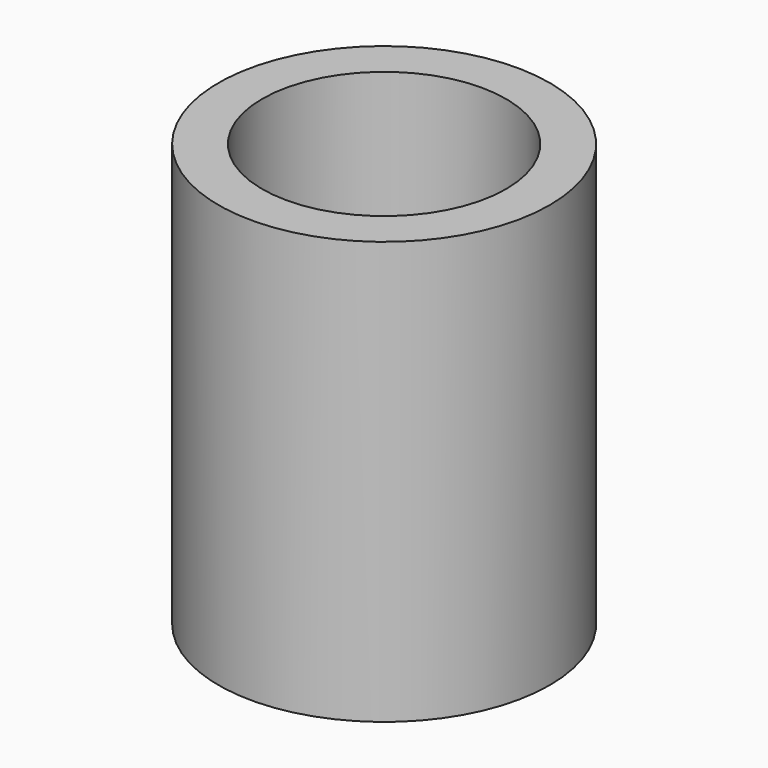
from build123d import *

# Parameters (mm, degrees)
F0_R      = 31
F0_R_2    = 28
F1_DEPTH  = 3
F0_R_3    = 14.75
F2_DEPTH  = 8
F0_R_4    = 11.3
F0_R_5    = 4.25
F3_DEPTH  = 30
F4_DEPTH  = 18
F5_R      = 8.25
F5_R_2    = 4.25
F6_DEPTH  = 9
F7_R      = 1
F8_R      = 38
F8_R_2    = 31
F8_R_3    = 28
F9_DEPTH  = 97
F10_R     = 24.75
F10_R_2   = 14.75
F11_DEPTH = 58
F12_DEPTH = 10
F13_R     = 14.75
F13_R_2   = 11.3
F13_R_3   = 4.25
F14_DEPTH = 6
F15_R     = 8
F15_R_2   = 4.25
F16_DEPTH = 3
F15_R_3   = 14.75
F15_R_4   = 11.3
F17_DEPTH = 20


with BuildPart() as f1:
    # F0 (on Top) → F1 (new body)
    with BuildSketch(Plane.XY):
        Circle(F0_R)
        Circle(F0_R_2, mode=Mode.SUBTRACT)
    extrude(amount=F1_DEPTH)

    # F0 (on Top) → F2 (join)
    with BuildSketch(Plane.XY):
        Circle(F0_R_2)
        Circle(F0_R_3, mode=Mode.SUBTRACT)
    extrude(amount=F2_DEPTH)

    # F0 (on Top) → F3 (join)
    with BuildSketch(Plane.XY):
        Circle(F0_R_3)
        Circle(F0_R_4, mode=Mode.SUBTRACT)
        Circle(F0_R_4)
        Circle(F0_R_5, mode=Mode.SUBTRACT)
    extrude(amount=F3_DEPTH)

    # F0 (on Top) → F4 (cut)
    with BuildSketch(Plane.XY):
        Circle(F0_R_4)
        Circle(F0_R_5, mode=Mode.SUBTRACT)
    extrude(amount=F4_DEPTH, mode=Mode.SUBTRACT)

    # F5 (on face) → F6 (cut)
    with BuildSketch(Plane(origin=(0, 0, 18), x_dir=(1, 0, 0), z_dir=(0, 0, -1))):
        Circle(F5_R)
        Circle(F5_R_2, mode=Mode.SUBTRACT)
    extrude(amount=-F6_DEPTH, mode=Mode.SUBTRACT)

    # F7
    f7_edges = [f1.edges().sort_by_distance(p)[0] for p in [
        (-11.3, 0, 18),
        (-8.25, 0, 27),
    ]]
    fillet(f7_edges, radius=F7_R)


with BuildPart() as f9:
    # F8 (on face) → F9 (new body)
    with BuildSketch(Plane.XY.offset(3)):
        Circle(F8_R)
        Circle(F8_R_2, mode=Mode.SUBTRACT)
        Circle(F8_R_2)
        Circle(F8_R_3, mode=Mode.SUBTRACT)
    extrude(amount=F9_DEPTH)


with BuildPart() as f11:
    # F10 (on face) → F11 (new body)
    with BuildSketch(Plane.XY.offset(8)):
        Circle(F10_R)
        Circle(F10_R_2, mode=Mode.SUBTRACT)
    extrude(amount=F11_DEPTH)


with BuildPart() as f12:
    # F12 (new): a face of the model
    f12_faces = [f1.part.faces().sort_by_distance(p)[0] for p in [
        (-14.3328069991, 0, 30),
    ]]
    extrude(f12_faces, amount=F12_DEPTH)


with BuildPart() as f14:
    # F13 (on face) → F14 (new body)
    with BuildSketch(Plane.XY.offset(40)):
        Circle(F13_R)
        Circle(F13_R_2, mode=Mode.SUBTRACT)
        Circle(F13_R_2)
        Circle(F13_R_3, mode=Mode.SUBTRACT)
    extrude(amount=F14_DEPTH)

    # F15 (on face) → F16 (cut)
    with BuildSketch(Plane.XY.offset(46)):
        Circle(F15_R)
        Circle(F15_R_2, mode=Mode.SUBTRACT)
    extrude(amount=-F16_DEPTH, mode=Mode.SUBTRACT)

    # F15 (on face) → F17 (join, through all)
    with BuildSketch(Plane.XY.offset(46)):
        Circle(F15_R_3)
        Circle(F15_R_4, mode=Mode.SUBTRACT)
    extrude(amount=F17_DEPTH)


solid = Compound([f1.part, f9.part, f11.part, f12.part, f14.part])
